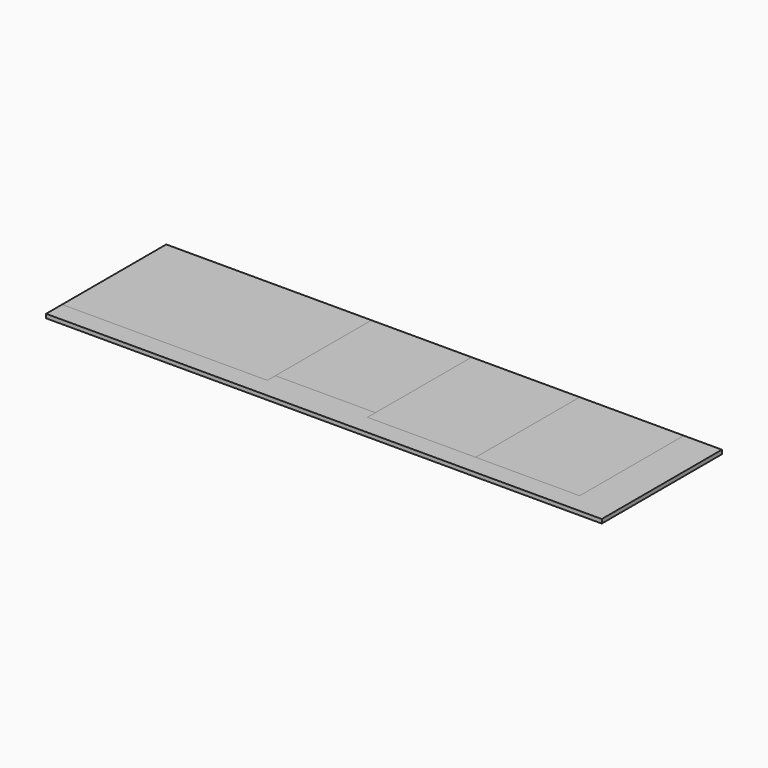
from build123d import *

# Parameters (mm, degrees)
F0_W     = 2220
F0_H     = 600
F1_DEPTH = 16
F3_DEPTH = 16
F4_DEPTH = 16
F5_DEPTH = 16
F2_W     = 416
F2_H     = 520
F6_DEPTH = 16


with BuildPart() as f1:
    # F0 (on Top) → F1 (new body)
    with BuildSketch(Plane.XY):
        Rectangle(F0_W, F0_H)
    extrude(amount=F1_DEPTH)


with BuildPart() as f3:
    # F2 (on face) → F3 (new body)
    with BuildSketch(Plane.XY.offset(16)):
        Polygon((-290, 300), (-1110, 300), (-1110, -220), (-290, -220), (-290, -180), (-290, -100), align=None)
    extrude(amount=-F3_DEPTH)


with BuildPart() as f4:
    # F2 (on face) → F4 (new body)
    with BuildSketch(Plane.XY.offset(16)):
        Polygon((110, 300), (-290, 300), (-290, -100), (-290, -180), (110, -180), align=None)
    extrude(amount=-F4_DEPTH)


with BuildPart() as f5:
    # F2 (on face) → F5 (new body)
    with BuildSketch(Plane.XY.offset(16)):
        Polygon((542, 300), (110, 300), (110, -180), (110, -220), (542, -220), align=None)
    extrude(amount=-F5_DEPTH)


with BuildPart() as f6:
    # F2 (on face) → F6 (new body)
    with BuildSketch(Plane.XY.offset(16)):
        with Locations((750, 40)):
            Rectangle(F2_W, F2_H)
    extrude(amount=-F6_DEPTH)


solid = Compound([f1.part, f3.part, f4.part, f5.part, f6.part])
